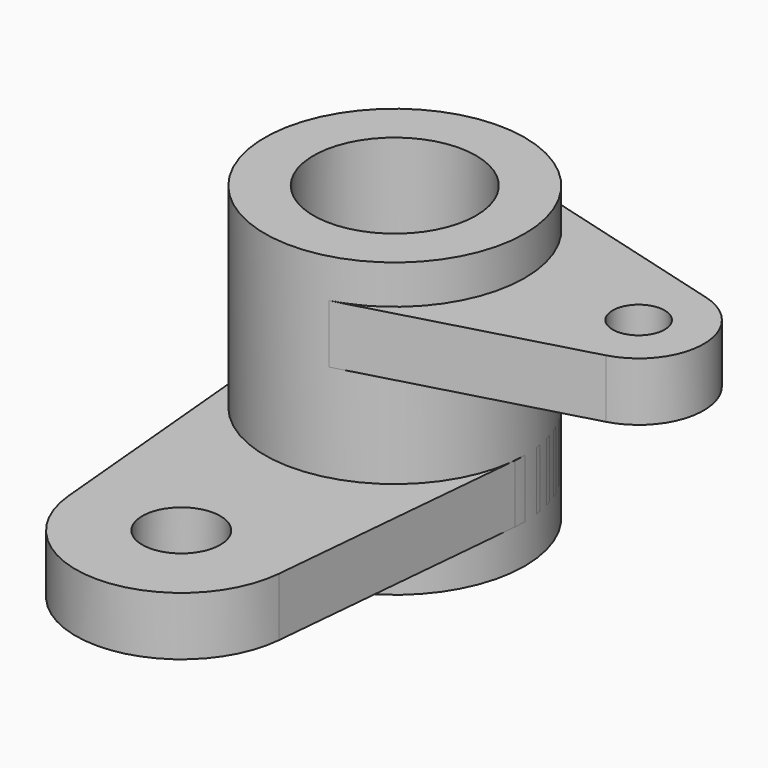
from build123d import *

# Parameters (mm, degrees)
F0_R     = 40
F0_R_2   = 25
F1_DEPTH = 90
F2_R     = 8
F3_DEPTH = 18
F5_R     = 12
F6_DEPTH = 18


with BuildPart() as f1:
    # F0 (on Top) → F1 (new body)
    with BuildSketch(Plane.XY):
        Circle(F0_R)
        Circle(F0_R_2, mode=Mode.SUBTRACT)
    extrude(amount=F1_DEPTH)


with BuildPart() as f3:
    # F2 (on Top) → F3 (new body)
    with BuildSketch(Plane.XY):
        with BuildLine():
            Line((10.666667, -38.551553), (80.333333, -19.275776))
            ThreePointArc((80.333333, -19.275776), (95, 0), (80.333333, 19.275776))
            Line((80.333333, 19.275776), (10.666667, 38.551553))
            ThreePointArc((10.666667, 38.551553), (31.832897, 24.221203), (40, 0))
            ThreePointArc((40, 0), (31.832897, -24.221203), (10.666667, -38.551553))
        make_face()
        with Locations((75, 0)):
            Circle(F2_R, mode=Mode.SUBTRACT)
    extrude(amount=F3_DEPTH)


with BuildPart() as f3_1:
    # F4: moved
    add(f3.part.moved(Location((0, 0, 60))))


with BuildPart() as f6:
    # F5 (on Top) → F6 (new body)
    with BuildSketch(Plane.XY):
        with BuildLine():
            ThreePointArc((39.832639, -3.655255), (39.958138, -1.829542), (40, 0))
            ThreePointArc((40, 0), (-1.829542, 39.958138), (-39.832639, -3.655255))
            ThreePointArc((-39.832639, -3.655255), (0, -40), (39.832639, -3.655255))
        make_face()
        with BuildLine():
            ThreePointArc((39.832639, -3.655255), (0, -40), (-39.832639, -3.655255))
            Line((-39.832639, -3.655255), (-32.364019, -85.043502))
            ThreePointArc((-32.364019, -85.043502), (0, -114.573607), (32.364019, -85.043502))
            Line((32.364019, -85.043502), (39.832639, -3.655255))
        make_face()
        with Locations((0, -82.073607)):
            Circle(F5_R, mode=Mode.SUBTRACT)
    extrude(amount=F6_DEPTH)


with BuildPart() as f6_1:
    # F7: moved
    add(f6.part.moved(Location((0, 0, 12))))


solid = Compound([f1.part, f3_1.part, f6_1.part])
